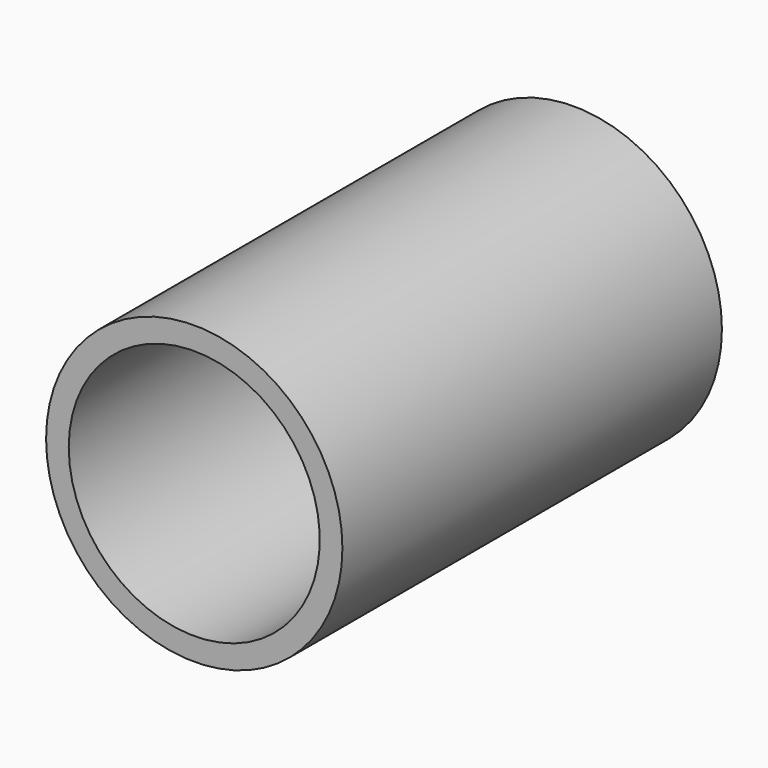
from build123d import *

# Parameters (mm, degrees)
F0_W = 32.7049233019
F0_H = 104.7131195664
F2_T = -5


with BuildPart() as f1:
    # F0 (on Top) → F1 (revolve)
    with BuildSketch(Plane.XY):
        with Locations((-16.352461651, 0)):
            Rectangle(F0_W, F0_H)
    revolve(axis=Axis((0, 0, 0), (0, -1, 0)))

    # F2
    f2_openings = [f1.faces().sort_by_distance(p)[0] for p in [
        (0, -52.35656, 0),
    ]]
    offset(amount=F2_T, openings=f2_openings)


solid = f1.part
